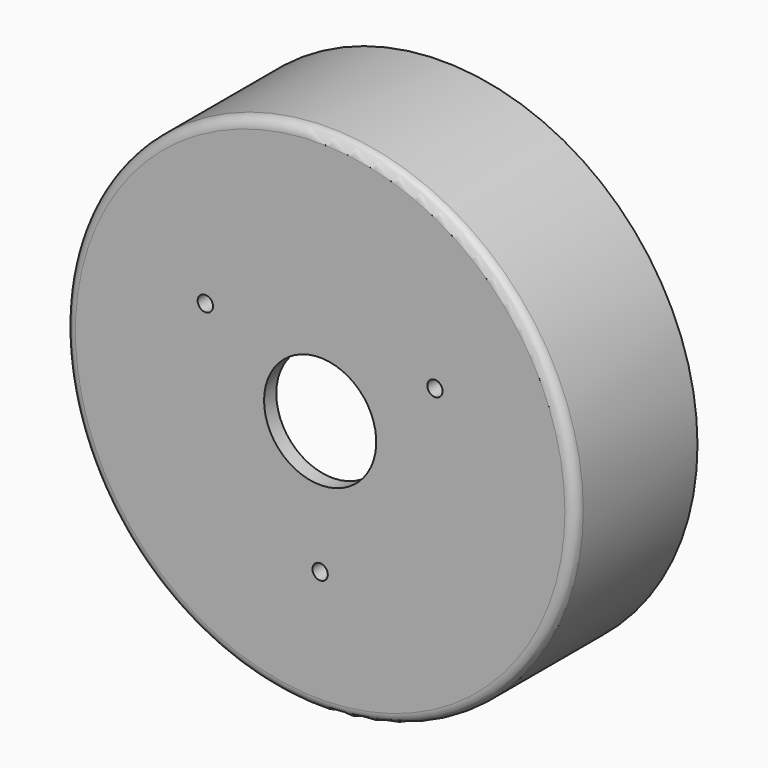
from build123d import *

# Parameters (mm, degrees)
F0_R     = 50
F1_DEPTH = 30
F2_T     = -3
F3_R     = 2
F5_D     = 22
F7_D     = 3


with BuildPart() as f1:
    # F0 (on Front) → F1 (new body)
    with BuildSketch(Plane.XZ):
        Circle(F0_R)
    extrude(amount=F1_DEPTH)

    # F2
    f2_openings = [f1.faces().sort_by_distance(p)[0] for p in [
        (0, 0, 0),
    ]]
    offset(amount=F2_T, openings=f2_openings)

    # F3
    f3_edges = [f1.edges().sort_by_distance(p)[0] for p in [
        (-50, -30, 0),
    ]]
    fillet(f3_edges, radius=F3_R)

    # F5 (through all)
    with Locations(Plane.XZ.offset(30)):
        with Locations((0, 0)):
            Hole(F5_D / 2)

    # F7 (through all)
    with Locations(Plane.XZ.offset(30)):
        with Locations((0, -26), (-22.51666, 13), (22.51666, 13)):
            Hole(F7_D / 2)


solid = f1.part
